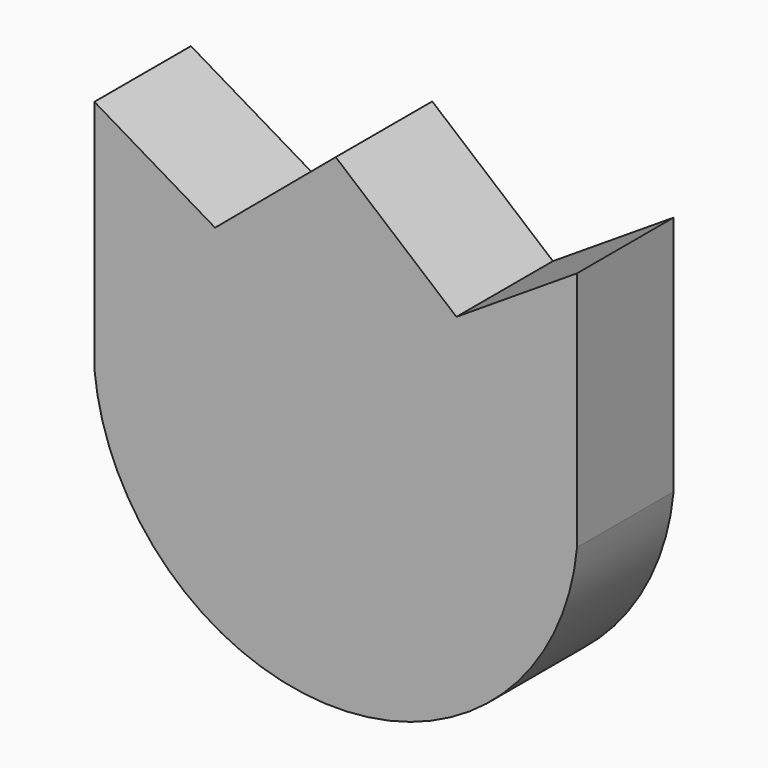
from build123d import *

# Parameters (mm, degrees)
F1_DEPTH = 25.4


with BuildPart() as f1:
    # F0 (on Front) → F1 (new body)
    with BuildSketch(Plane.XZ):
        with BuildLine():
            Line((-50.8, 49.543902), (-50.8, 0))
            ThreePointArc((-50.8, 0), (0, -46.225164), (50.8, 0))
            Line((50.8, 0), (50.8, 50.8))
            Line((50.8, 50.8), (25.4, 34.472515))
            Line((25.4, 34.472515), (0, 55.81563))
            Line((0, 55.81563), (-25.4, 34.472515))
            Line((-25.4, 34.472515), (-50.8, 49.543902))
        make_face()
    extrude(amount=F1_DEPTH)


solid = f1.part
